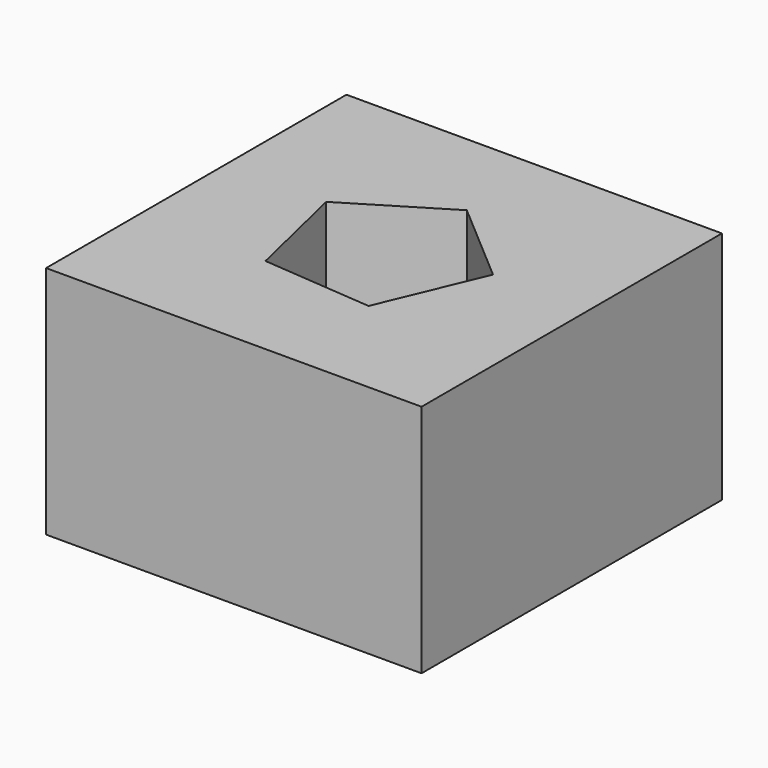
from build123d import *

# Parameters (mm, degrees)
F0_W     = 40
F0_H     = 40
F1_DEPTH = 25
F3_DEPTH = 25.001


with BuildPart() as f1:
    # F0 (on Top) → F1 (new body)
    with BuildSketch(Plane.XY):
        with Locations((-45.036754, -4.598362)):
            Rectangle(F0_W, F0_H)
    extrude(amount=F1_DEPTH)

    # F2 (on face) → F3 (cut, through all)
    with BuildSketch(Plane.XY.offset(25)):
        Polygon((-39.823443, -13.17135), (-35.272356, -2.289408), (-44.215335, 5.401638), (-54.293486, -0.726976), (-51.579148, -12.205714), align=None)
    extrude(amount=-F3_DEPTH, mode=Mode.SUBTRACT)


solid = f1.part
